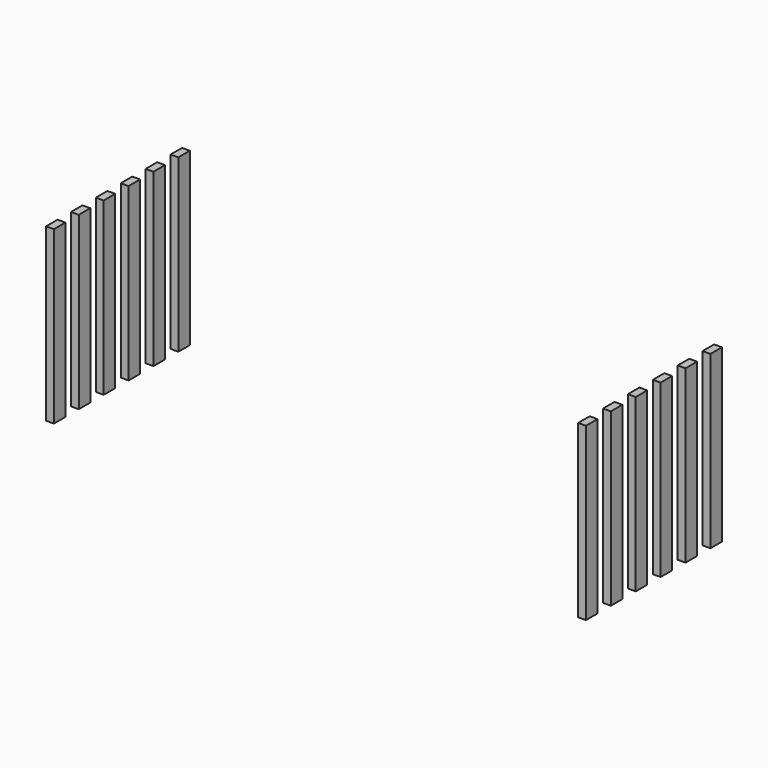
from build123d import *

# Parameters (mm, degrees)
BOX001_W      = 1
BOX001_H      = 1.85
BOX001_DEPTH  = 22
ARRAY_X_COUNT = 2
ARRAY_X_PITCH = 68.4
ARRAY_Y_COUNT = 6
ARRAY_Y_PITCH = 4


with BuildPart() as part:
    # Box001 → Box001 (new body)
    with BuildSketch(Plane(origin=(-0.5, 0, -1), x_dir=(1, 0, 0), z_dir=(0, 0, 1))):
        with Locations((0.5, 0.925)):
            Rectangle(BOX001_W, BOX001_H)
    extrude(amount=BOX001_DEPTH)

    # Array X: part ×2


with BuildPart() as part_1:
    add(part.part)
    with Locations(*[(i * ARRAY_X_PITCH, 0, 0) for i in range(1, ARRAY_X_COUNT)]):
        add(part.part)

    # Array Y: part ×6


with BuildPart() as part_2:
    add(part_1.part)
    with Locations(*[(0, i * ARRAY_Y_PITCH, 0) for i in range(1, ARRAY_Y_COUNT)]):
        add(part_1.part)


with BuildPart() as part_3:
    # Array placement: moved
    add(part_2.part.moved(Location((-34.2, 11, 0))))


solid = part_3.part
